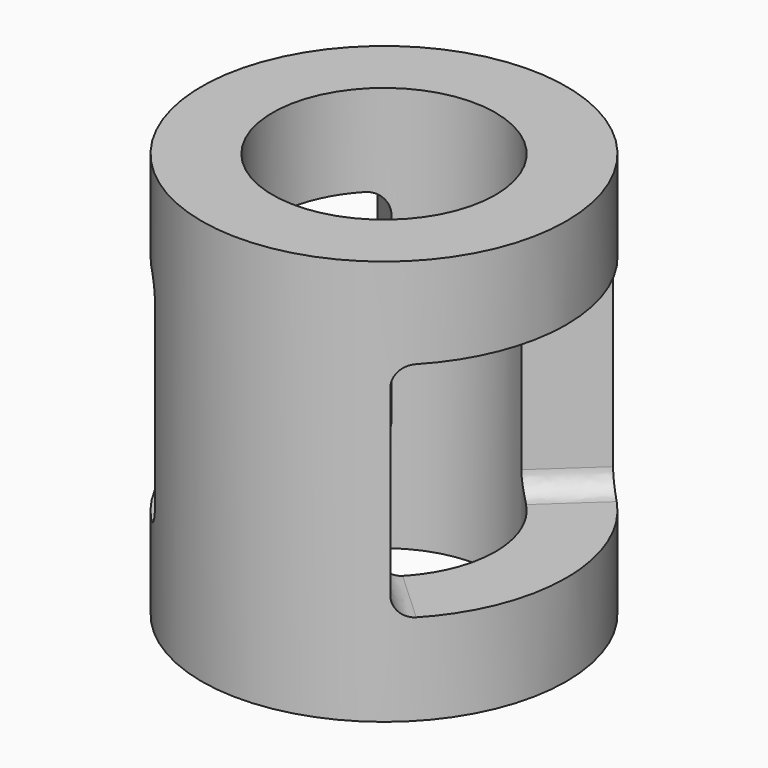
from build123d import *

# Parameters (mm, degrees)
F0_R     = 9
F0_R_2   = 5.5
F1_DEPTH = 20
F2_W     = 3
F2_H     = 11
F4_W     = 40
F4_H     = 11
F6_W     = 40
F6_H     = 11
F9_R     = 1


with BuildPart() as f1:
    # F0 (on Top) → F1 (new body)
    with BuildSketch(Plane.XY):
        Circle(F0_R)
        Circle(F0_R_2, mode=Mode.SUBTRACT)
    extrude(amount=F1_DEPTH)

    # F2 (on Right) → F7 section 0
    with BuildSketch(Plane.YZ):
        with Locations((0, 10)):
            Rectangle(F2_W, F2_H)
    # F4 (on offset) → F7 section 1
    with BuildSketch(Plane.YZ.offset(20)):
        with Locations((0, 10)):
            Rectangle(F4_W, F4_H)
    loft(mode=Mode.SUBTRACT)

    # F2 (on Right) → F8 section 0
    with BuildSketch(Plane.YZ):
        with Locations((0, 10)):
            Rectangle(F2_W, F2_H)
    # F6 (on offset) → F8 section 1
    with BuildSketch(Plane.YZ.offset(-20)):
        with Locations((0, 10)):
            Rectangle(F6_W, F6_H)
    loft(mode=Mode.SUBTRACT)

    # F9
    f9_edges = [f1.edges().sort_by_distance(p)[0] for p in [
        (4.508802, -5.670642, 15.5),
        (4.508802, 5.670642, 15.5),
        (4.508802, 5.670642, 4.5),
        (4.508802, -5.670642, 4.5),
        (-4.508802, 5.670642, 4.5),
        (-4.508802, -5.670642, 4.5),
        (-4.508802, -5.670642, 15.5),
        (-4.508802, 5.670642, 15.5),
    ]]
    fillet(f9_edges, radius=F9_R)


solid = f1.part
